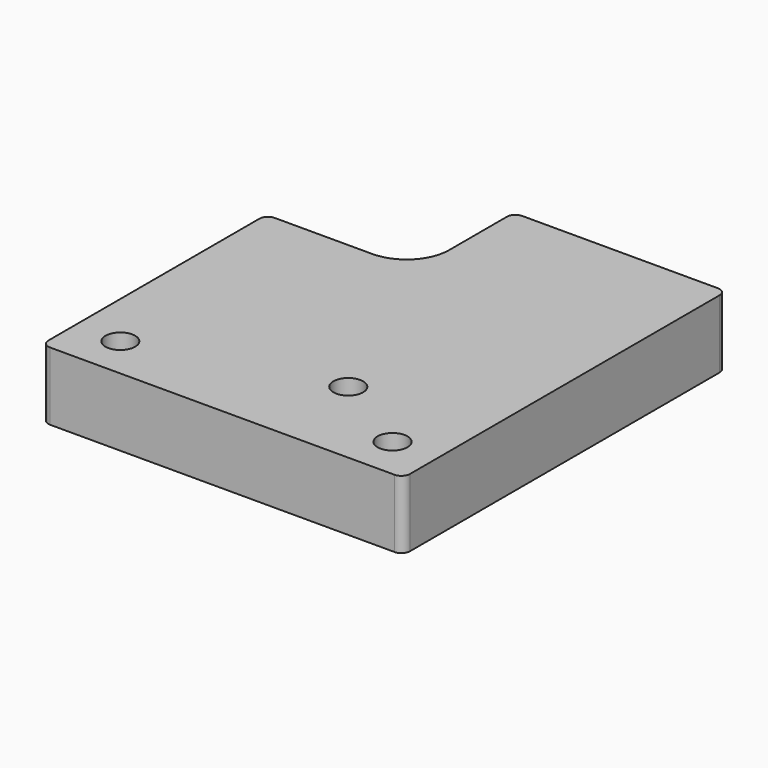
from build123d import *

# Parameters (mm, degrees)
SKETCH_R    = 1.75
PAD_DEPTH   = 8
FILLET_R    = 1
FILLET001_R = 5


with BuildPart() as part:
    # Sketch → Pad (new body)
    with BuildSketch(Plane.XY):
        Polygon((21.25, 23.75), (21.25, -23.75), (-21.25, -23.75), (-21.25, 9.25), (-3.75, 9.25), (-3.75, 23.75), align=None)
        with Locations((-16, -18.75)):
            Circle(SKETCH_R, mode=Mode.SUBTRACT)
        with Locations((16, -18.75)):
            Circle(SKETCH_R, mode=Mode.SUBTRACT)
        with Locations((6, -12.75)):
            Circle(SKETCH_R, mode=Mode.SUBTRACT)
    extrude(amount=PAD_DEPTH)

    # Fillet
    fillet_edges = [part.edges().sort_by_distance(p)[0] for p in [
        (-3.75, 23.75, 4),
        (-21.25, 9.25, 4),
        (21.25, 23.75, 4),
        (21.25, -23.75, 4),
        (-21.25, -23.75, 4),
    ]]
    fillet(fillet_edges, radius=FILLET_R)

    # Fillet001
    fillet001_edges = [part.edges().sort_by_distance(p)[0] for p in [
        (-3.75, 9.25, 4),
    ]]
    fillet(fillet001_edges, radius=FILLET001_R)


solid = part.part
